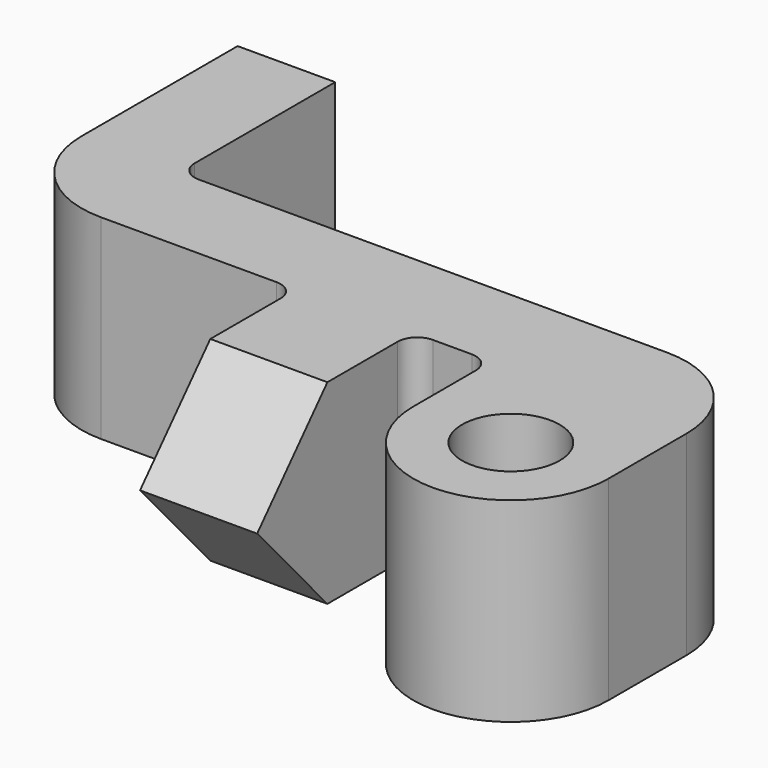
from build123d import *

# Parameters (mm, degrees)
F0_R     = 2.5
F1_DEPTH = 10
F2_R     = 5
F3_R     = 1
F5_DEPTH = 6


with BuildPart() as f1:
    # F0 (on Top) → F1 (new body)
    with BuildSketch(Plane.XY):
        with BuildLine():
            Line((0, 25), (0, 10))
            Line((0, 10), (15, 10))
            Line((15, 10), (15, 0))
            Line((15, 0), (21, 0))
            Line((21, 0), (21, 10))
            Line((21, 10), (25, 10))
            Line((25, 10), (25, 5))
            ThreePointArc((25, 5), (30, 0), (35, 5))
            Line((35, 5), (35, 15))
            Line((35, 15), (5, 15))
            Line((5, 15), (5, 25))
            Line((5, 25), (0, 25))
        make_face()
        with Locations((30, 5)):
            Circle(F0_R, mode=Mode.SUBTRACT)
    extrude(amount=F1_DEPTH)

    # F2
    f2_edges = [f1.edges().sort_by_distance(p)[0] for p in [
        (0, 10, 5),
        (35, 15, 5),
    ]]
    fillet(f2_edges, radius=F2_R)

    # F3
    f3_edges = [f1.edges().sort_by_distance(p)[0] for p in [
        (15, 10, 5),
        (5, 15, 5),
        (25, 10, 5),
        (21, 10, 5),
    ]]
    fillet(f3_edges, radius=F3_R)

    # F4 (on face) → F5 (cut)
    with BuildSketch(Plane(origin=(15, 0, 0), x_dir=(0, -1, 0), z_dir=(-1, 0, 0))):
        Polygon((-4.5, 10), (0, 5), (0, 10), align=None)
        Polygon((0, 5), (-4.5, 0), (0, 0), align=None)
    extrude(amount=-F5_DEPTH, mode=Mode.SUBTRACT)


solid = f1.part
